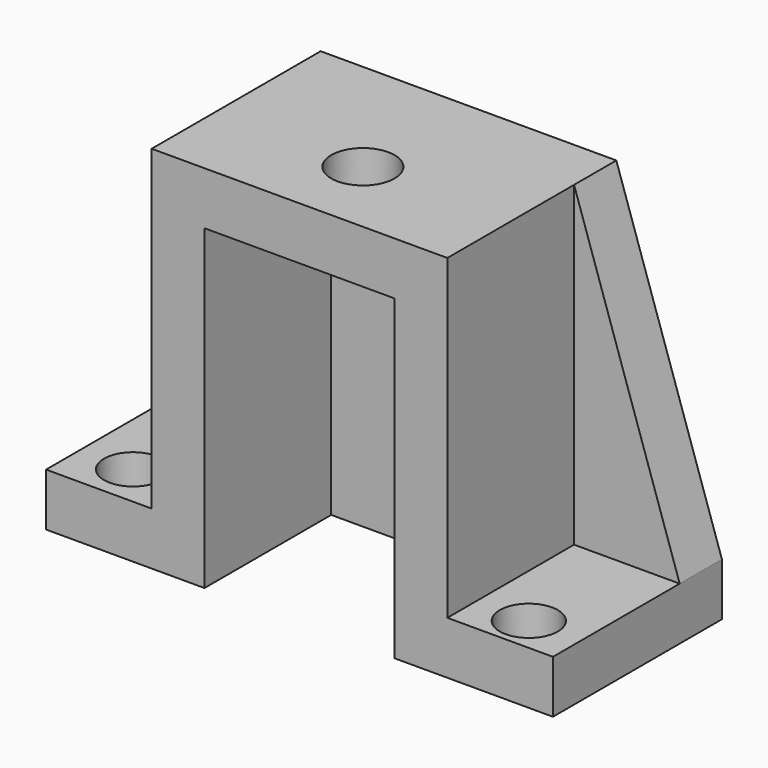
from build123d import *

# Parameters (mm, degrees)
F1_DEPTH = 40
F0_W     = 36
F0_H     = 60
F2_DEPTH = 10
F3_R     = 5.5
F4_DEPTH = 10
F3_R_2   = 6
F5_DEPTH = 60


with BuildPart() as f1:
    # F0 (on Front) → F1 (new body)
    with BuildSketch(Plane.XZ):
        Polygon((-28, 0), (-48, 0), (-48, -10), (-18, -10), (-18, 50), (18, 50), (18, -10), (48, -10), (48, 0), (28, 0), (28, 60), (-28, 60), align=None)
    extrude(amount=F1_DEPTH)

    # F0 (on Front) → F2 (join)
    with BuildSketch(Plane.XZ):
        Polygon((-28, 60), (-48, 0), (-28, 0), align=None)
        Polygon((48, 0), (28, 60), (28, 0), align=None)
        with Locations((0, 20)):
            Rectangle(F0_W, F0_H)
    extrude(amount=F2_DEPTH)

    # F3 (on Top) → F4 (cut)
    with BuildSketch(Plane.XY):
        with Locations((-38, -31.910546)):
            Circle(F3_R)
        with Locations((38, -33.216827)):
            Circle(F3_R)
    extrude(amount=-F4_DEPTH, mode=Mode.SUBTRACT)

    # F3 (on Top) → F5 (cut)
    with BuildSketch(Plane.XY):
        with Locations((0, -25)):
            Circle(F3_R_2)
    extrude(amount=F5_DEPTH, mode=Mode.SUBTRACT)


solid = f1.part
